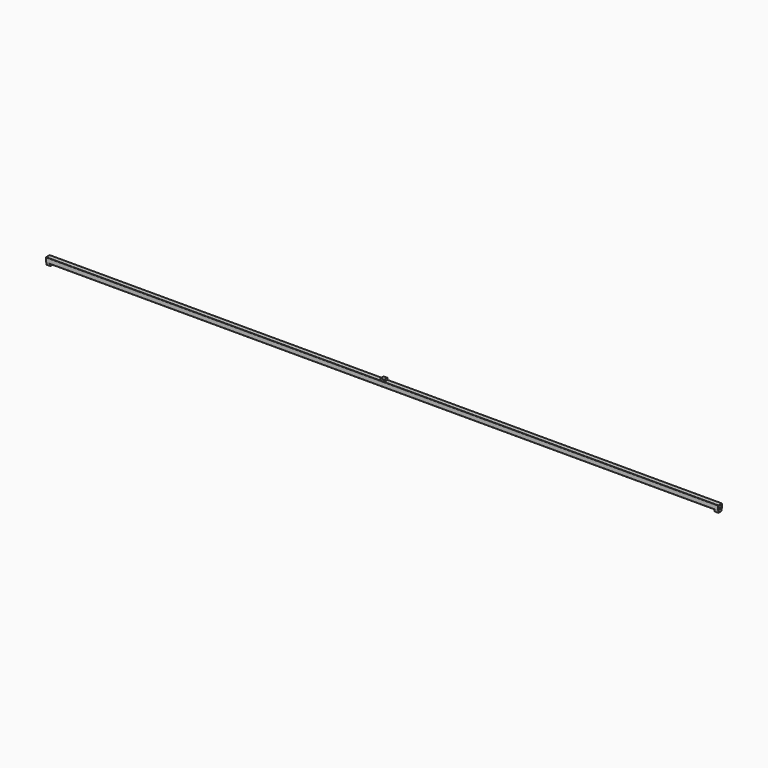
from build123d import *

# Parameters (mm, degrees)
F1_DEPTH = 1750
F2_W     = 21.071074
F2_H     = 21
F3_DEPTH = 10
F4_W     = 20.895123
F4_H     = 21
F4_W_2   = 20.859003
F5_DEPTH = 10


with BuildPart() as f1:
    # F0 (on Right) → F1 (new body, symmetric)
    with BuildSketch(Plane.YZ):
        with BuildLine():
            ThreePointArc((12.5, 10.5), (11.914214, 11.914214), (10.5, 12.5))
            Line((10.5, 12.5), (-10.5, 12.5))
            ThreePointArc((-10.5, 12.5), (-11.914214, 11.914214), (-12.5, 10.5))
            Line((-12.5, 10.5), (-12.5, -10.5))
            ThreePointArc((-12.5, -10.5), (-11.914214, -11.914214), (-10.5, -12.5))
            Line((-10.5, -12.5), (10.5, -12.5))
            ThreePointArc((10.5, -12.5), (11.914214, -11.914214), (12.5, -10.5))
            Line((12.5, -10.5), (12.5, 10.5))
        make_face()
        with BuildLine():
            Line((-7.3, 9.3), (7.3, 9.3))
            ThreePointArc((7.3, 9.3), (8.714214, 8.714214), (9.3, 7.3))
            Line((9.3, 7.3), (9.3, -7.3))
            ThreePointArc((9.3, -7.3), (8.714214, -8.714214), (7.3, -9.3))
            Line((7.3, -9.3), (-7.3, -9.3))
            ThreePointArc((-7.3, -9.3), (-8.714214, -8.714214), (-9.3, -7.3))
            Line((-9.3, -7.3), (-9.3, 7.3))
            ThreePointArc((-9.3, 7.3), (-8.714214, 8.714214), (-7.3, 9.3))
        make_face(mode=Mode.SUBTRACT)
    extrude(amount=F1_DEPTH, both=True)

    # F2 (on face) → F3 (join)
    with BuildSketch(Plane.XY.offset(12.5)):
        Rectangle(F2_W, F2_H)
    extrude(amount=F3_DEPTH)

    # F4 (on face) → F5 (join)
    with BuildSketch(Plane(origin=(0, 0, -12.5), x_dir=(1, 0, 0), z_dir=(0, 0, -1))):
        with Locations((-1739.552438, 0)):
            Rectangle(F4_W, F4_H)
        with Locations((1739.570498, 0)):
            Rectangle(F4_W_2, F4_H)
    extrude(amount=F5_DEPTH)


solid = f1.part
